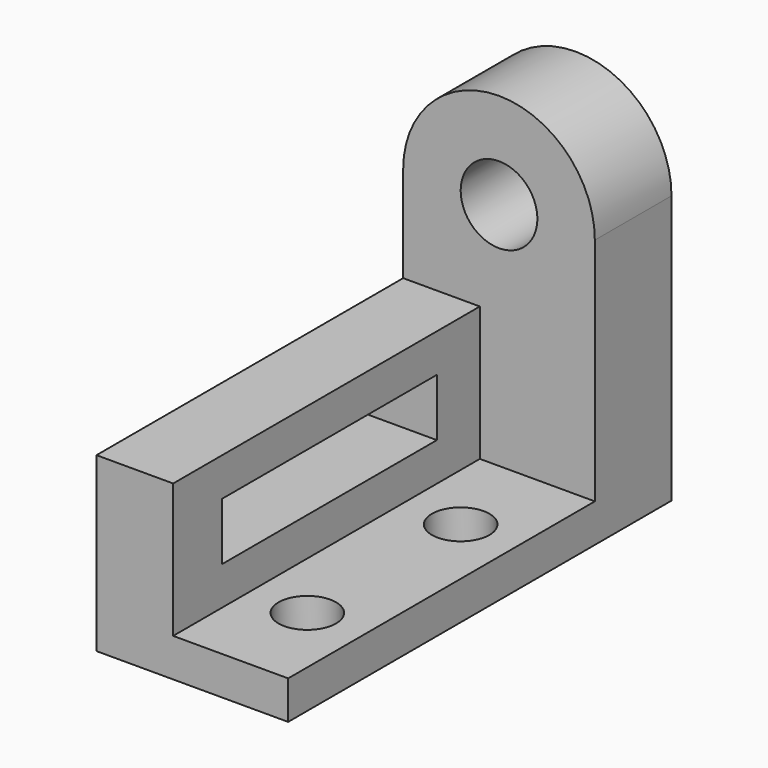
from build123d import *

# Parameters (mm, degrees)
F1_DEPTH  = 100
F2_W      = 70
F2_H      = 15
F3_DEPTH  = 25.4
F4_W      = 25
F4_H      = 70
F5_DEPTH  = 50
F7_DEPTH  = 25
F8_R      = 10
F9_DEPTH  = 25.4
F10_R     = 7.5
F11_DEPTH = 25.4


with BuildPart() as f1:
    # F0 (on Front) → F1 (new body)
    with BuildSketch(Plane.XZ):
        Polygon((20, 45), (0, 45), (0, 0), (50, 0), (50, 10), (20, 10), align=None)
    extrude(amount=F1_DEPTH)

    # F2 (on face) → F3 (cut)
    with BuildSketch(Plane.YZ.offset(20)):
        with Locations((-49, 27.5)):
            Rectangle(F2_W, F2_H)
    extrude(amount=-F3_DEPTH, mode=Mode.SUBTRACT)

    # F4 (on Right) → F5 (join)
    with BuildSketch(Plane.YZ):
        with Locations((12.5, 35)):
            Rectangle(F4_W, F4_H)
    extrude(amount=F5_DEPTH)

    # F6 (on face) → F7 (join)
    with BuildSketch(Plane(origin=(0, 25, 0), x_dir=(-1, 0, 0), z_dir=(0, 1, 0))):
        with BuildLine():
            ThreePointArc((0, 70), (-25, 95), (-50, 70))
            Line((-50, 70), (0, 70))
        make_face()
    extrude(amount=-F7_DEPTH)

    # F8 (on face) → F9 (cut)
    with BuildSketch(Plane(origin=(0, 25, 0), x_dir=(-1, 0, 0), z_dir=(0, 1, 0))):
        with Locations((-25, 70)):
            Circle(F8_R)
    extrude(amount=-F9_DEPTH, mode=Mode.SUBTRACT)

    # F10 (on face) → F11 (cut)
    with BuildSketch(Plane.XY.offset(10)):
        with Locations((35, -25)):
            Circle(F10_R)
        with Locations((35, -75)):
            Circle(F10_R)
    extrude(amount=-F11_DEPTH, mode=Mode.SUBTRACT)


solid = f1.part
